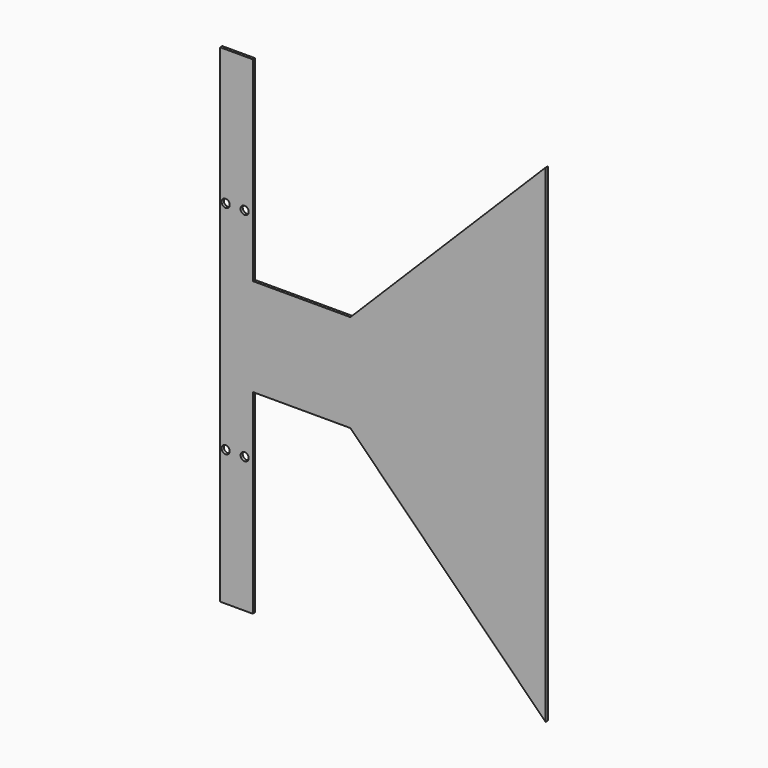
from build123d import *

# Parameters (mm, degrees)
F0_R     = 1.5
F0_W     = 36
F0_H     = 36
F1_DEPTH = 0.5


with BuildPart() as f1:
    # F0 (on Front) → F1 (new body, symmetric)
    with BuildSketch(Plane.XZ):
        Polygon((12, 90), (0, 90), (0, -90), (12, -90), (12, -18), (12, 18), align=None)
        with Locations((2, -40)):
            Circle(F0_R, mode=Mode.SUBTRACT)
        with Locations((9, -40)):
            Circle(F0_R, mode=Mode.SUBTRACT)
        with Locations((2, 40)):
            Circle(F0_R, mode=Mode.SUBTRACT)
        with Locations((9, 40)):
            Circle(F0_R, mode=Mode.SUBTRACT)
        with Locations((30, 0)):
            Rectangle(F0_W, F0_H)
        Polygon((120, 90), (48, 18), (48, -18), (120, -90), align=None)
    extrude(amount=F1_DEPTH, both=True)


solid = f1.part
